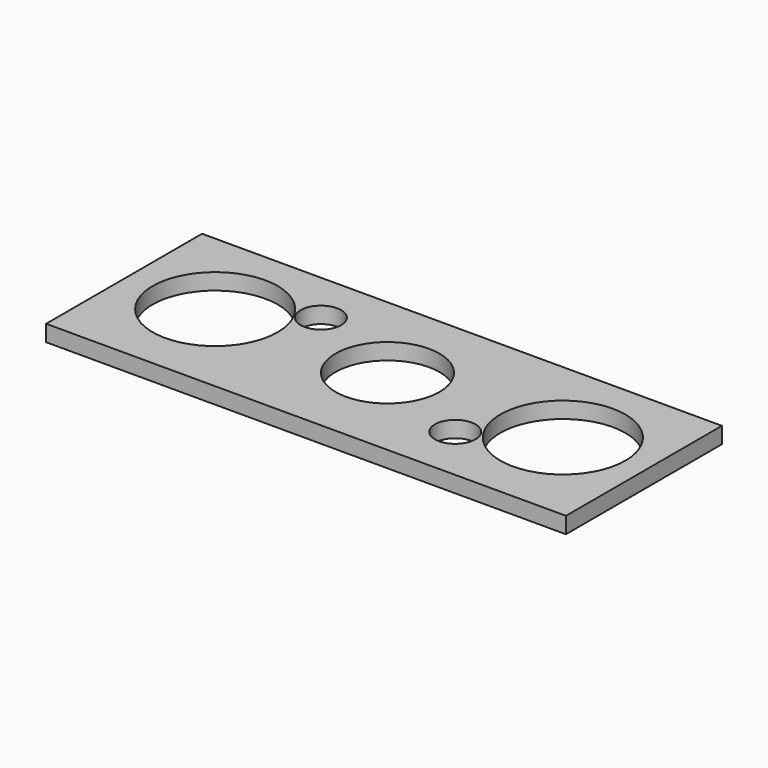
from build123d import *

# Parameters (mm, degrees)
F0_W     = 80
F0_H     = 30
F0_R     = 3.125
F0_R_2   = 9.625
F0_R_3   = 8
F1_DEPTH = 2.5


with BuildPart() as f1:
    # F0 (on Top) → F1 (new body)
    with BuildSketch(Plane.XY):
        with Locations((-26.984392, -0.669785)):
            Rectangle(F0_W, F0_H)
        with Locations((-11.025432, -6.9205)):
            Circle(F0_R, mode=Mode.SUBTRACT)
        with Locations((-53.5, 0)):
            Circle(F0_R_2, mode=Mode.SUBTRACT)
        with Locations((-42.194758, 6.203426)):
            Circle(F0_R, mode=Mode.SUBTRACT)
        with Locations((-26.984392, 0)):
            Circle(F0_R_3, mode=Mode.SUBTRACT)
        Circle(F0_R_2, mode=Mode.SUBTRACT)
    extrude(amount=F1_DEPTH)


solid = f1.part
